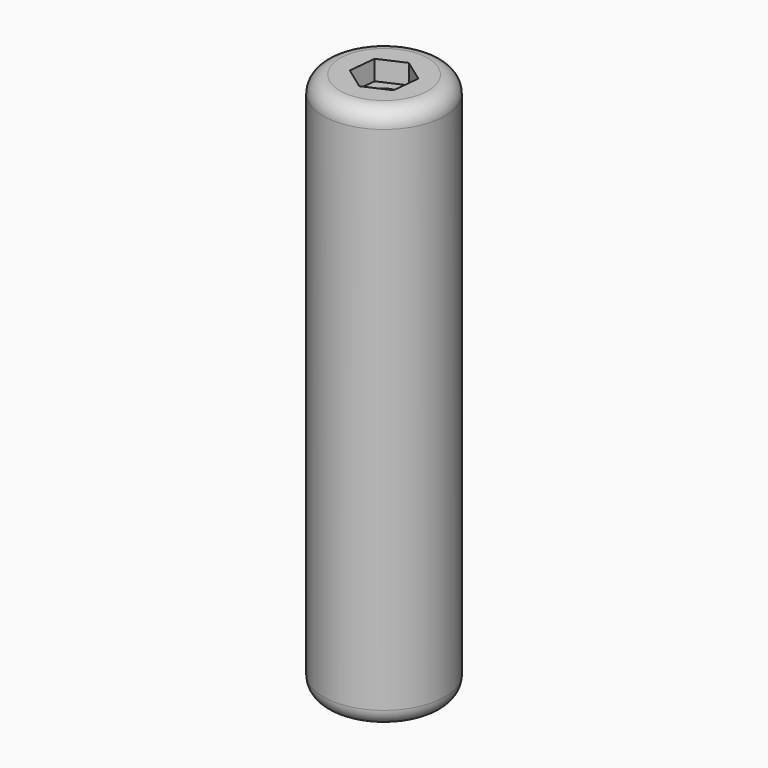
from build123d import *

# Parameters (mm, degrees)
F0_R     = 18.415
F1_DEPTH = 165.1
F2_R     = 5.08
F3_D     = 8.8
F4_R     = 4.4
F5_DEPTH = 6


with BuildPart() as f1:
    # F0 (on Top) → F1 (new body)
    with BuildSketch(Plane.XY):
        Circle(F0_R)
    extrude(amount=F1_DEPTH)

    # F2
    f2_edges = [f1.edges().sort_by_distance(p)[0] for p in [
        (-18.415, 0, 165.1),
        (-18.415, 0, 0),
    ]]
    fillet(f2_edges, radius=F2_R)

    # F3 (through all)
    with Locations(Plane(origin=(0, 0, 0), x_dir=(1, 0, 0), z_dir=(0, 0, -1))):
        with Locations((0, 0)):
            Hole(F3_D / 2)

    # F4 (on face) → F5 (cut)
    with BuildSketch(Plane.XY.offset(165.1)):
        Polygon((0.8534678569, 8.3279604917), (-6.7854914191, 4.9031050912), (-7.6389592759, -3.4248554005), (-0.8534678569, -8.3279604917), (6.7854914191, -4.9031050912), (7.6389592759, 3.4248554005), align=None)
        Circle(F4_R, mode=Mode.SUBTRACT)
    extrude(amount=-F5_DEPTH, mode=Mode.SUBTRACT)


solid = f1.part
